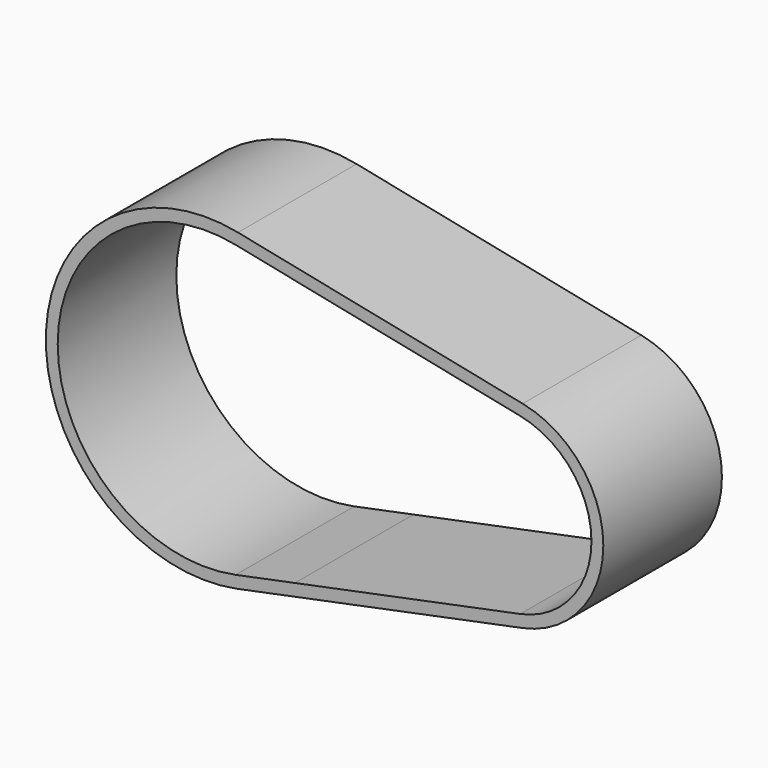
from build123d import *

# Parameters (mm, degrees)
F0_R     = 15
F1_DEPTH = 25
F3_DEPTH = 25.001


with BuildPart() as f1:
    # F0 (on Front) → F1 (new body)
    with BuildSketch(Plane.XZ):
        with BuildLine():
            ThreePointArc((-45, -24.494897), (-75, 0), (-45, 24.494897))
            Line((-45, 24.494897), (-35.008003, 22.45529))
            ThreePointArc((-35.008003, 22.45529), (-39.609775, 24.920739), (-44.6, 26.454489))
            ThreePointArc((-44.6, 26.454489), (-77, 0), (-44.6, -26.454489))
            ThreePointArc((-44.6, -26.454489), (-39.609775, -24.920739), (-35.008003, -22.45529))
            Line((-35.008003, -22.45529), (-45, -24.494897))
        make_face()
        with BuildLine():
            ThreePointArc((-44.6, 26.454489), (-39.609775, 24.920739), (-35.008003, 22.45529))
            Line((-35.008003, 22.45529), (-4.838367, 16.296938))
            ThreePointArc((-4.838367, 16.296938), (-0.741317, 16.983829), (3.4, 16.65653))
            Line((3.4, 16.65653), (-44.6, 26.454489))
        make_face()
        with BuildLine():
            Line((-4.838367, 16.296938), (-35.008003, 22.45529))
            ThreePointArc((-35.008003, 22.45529), (-26.190507, 12.732166), (-23, 0))
            ThreePointArc((-23, 0), (-26.190507, -12.732166), (-35.008003, -22.45529))
            Line((-35.008003, -22.45529), (-4.838367, -16.296938))
            ThreePointArc((-4.838367, -16.296938), (-0.741317, -16.983829), (3.4, -16.65653))
            ThreePointArc((3.4, -16.65653), (17, 0), (3.4, 16.65653))
            ThreePointArc((3.4, 16.65653), (-0.741317, 16.983829), (-4.838367, 16.296938))
        make_face()
        Circle(F0_R, mode=Mode.SUBTRACT)
        with BuildLine():
            Line((-4.838367, -16.296938), (-35.008003, -22.45529))
            ThreePointArc((-35.008003, -22.45529), (-39.609775, -24.920739), (-44.6, -26.454489))
            Line((-44.6, -26.454489), (3.4, -16.65653))
            ThreePointArc((3.4, -16.65653), (-0.741317, -16.983829), (-4.838367, -16.296938))
        make_face()
        with BuildLine():
            ThreePointArc((-45, -24.494897), (-30.635083, -15.811388), (-25, 0))
            ThreePointArc((-25, 0), (-30.635083, 15.811388), (-45, 24.494897))
            ThreePointArc((-45, 24.494897), (-75, 0), (-45, -24.494897))
        make_face()
        with BuildLine():
            ThreePointArc((-45, -24.494897), (-75, 0), (-45, 24.494897))
            Line((-45, 24.494897), (-35.008003, 22.45529))
            ThreePointArc((-35.008003, 22.45529), (-39.609775, 24.920739), (-44.6, 26.454489))
            ThreePointArc((-44.6, 26.454489), (-77, 0), (-44.6, -26.454489))
            ThreePointArc((-44.6, -26.454489), (-39.609775, -24.920739), (-35.008003, -22.45529))
            Line((-35.008003, -22.45529), (-45, -24.494897))
        make_face()
        Circle(F0_R)
    extrude(amount=F1_DEPTH)

    # F2 (on face) → F3 (cut, through all)
    with BuildSketch(Plane.XZ.offset(25)):
        with BuildLine():
            ThreePointArc((3, -14.696938), (15, 0), (3, 14.696938))
            Line((3, 14.696938), (-45, 24.494897))
            ThreePointArc((-45, 24.494897), (-75, 0), (-45, -24.494897))
            Line((-45, -24.494897), (3, -14.696938))
        make_face()
    extrude(amount=-F3_DEPTH, mode=Mode.SUBTRACT)


solid = f1.part
